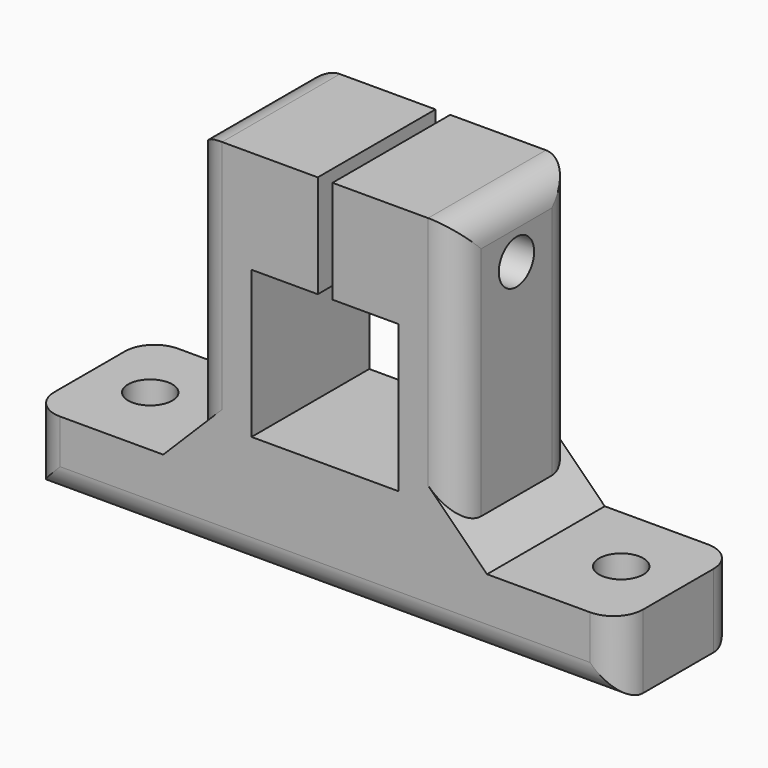
from build123d import *

# Parameters (mm, degrees)
F1_DEPTH = 10
F2_R     = 1.5
F3_DEPTH = 10.5
F4_R     = 1.5
F5_DEPTH = 25
F6_DEPTH = 2
F7_SIZE  = 2
F8_SIZE  = 2
F9_R     = 2


with BuildPart() as f1:
    # F0 (on Front) → F1 (new body)
    with BuildSketch(Plane.XZ):
        Polygon((-20, -11.5), (20, -11.5), (20, -6.5), (9, -6.5), (9, 11.5), (0.5, 11.5), (0.5, 6.5086536296), (5, 6.5086536296), (5, -3.4913463704), (-5, -3.4913463704), (-5, 6.5086536296), (-0.5, 6.5086536296), (-0.5, 11.5), (-9, 11.5), (-9, -6.5), (-20, -6.5), align=None)
    extrude(amount=F1_DEPTH)

    # F2 (on face) → F3 (cut)
    with BuildSketch(Plane(origin=(0, 0, -11.5), x_dir=(1, 0, 0), z_dir=(0, 0, -1))):
        with Locations((16, 4.8524653539)):
            Circle(F2_R)
        with Locations((-16, 4.8524653539)):
            Circle(F2_R)
    extrude(amount=-F3_DEPTH, mode=Mode.SUBTRACT)

    # F4 (on face) → F5 (cut)
    with BuildSketch(Plane(origin=(-9, 0, 0), x_dir=(0, -1, 0), z_dir=(-1, 0, 0))):
        with Locations((5, 9.5)):
            Circle(F4_R)
    extrude(amount=-F5_DEPTH, mode=Mode.SUBTRACT)

    # F6 (add): faces of the model
    f6_faces = [f1.faces().sort_by_distance(p)[0] for p in [
        (4.75, -5, 11.5),
        (-4.75, -5, 11.5),
    ]]
    extrude(f6_faces, amount=F6_DEPTH)

    # F7
    f7_edges = [f1.edges().sort_by_distance(p)[0] for p in [
        (-9, -5, -6.5),
    ]]
    chamfer(f7_edges, length=F7_SIZE)

    # F8
    f8_edges = [f1.edges().sort_by_distance(p)[0] for p in [
        (9, -5, -6.5),
    ]]
    chamfer(f8_edges, length=F8_SIZE)

    # F9
    f9_edges = [f1.edges().sort_by_distance(p)[0] for p in [
        (-20, -10, -9),
        (-20, 0, -9),
        (20, 0, -9),
        (20, -10, -9),
        (9, -5, 13.5),
        (-9, -5, 13.5),
        (-9, -10, 4.5),
        (9, -10, 4.5),
        (9, 0, 4.5),
        (-9, 0, 4.5),
        (0, 0, -11.5),
        (0, -10, -11.5),
    ]]
    fillet(f9_edges, radius=F9_R)


solid = f1.part
